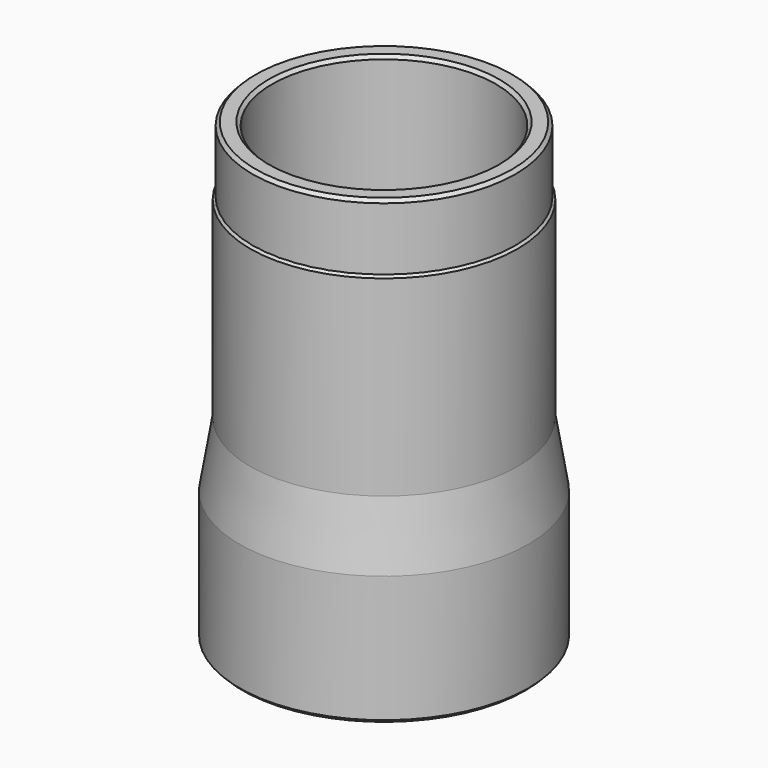
from build123d import *

# Parameters (mm, degrees)
REVOLVE_ONTO_SKETCH_ROLL_ANGLE       = 90
FILLET_R                             = 3
CHAMFER_SIZE                         = 0.5
REVOLVE001_ONTO_SKETCH001_ROLL_ANGLE = 90
CHAMFER001_SIZE                      = 0.5
REVOLVE002_ONTO_SKETCH002_ROLL_ANGLE = 90
CHAMFER002_SIZE                      = 0.5


with BuildPart() as chamfer_body:
    # Sketch as drawn → Revolve (revolve)
    with BuildSketch(Plane.XY):
        Polygon((18.25, 0), (21.25, 0), (21.25, 20), (15, 30), (15, 50), (12, 50), (12, 29.139611), (18.25, 19.139611), align=None)
    revolve(axis=Axis((0, 0, 0), (0, 1, 0)))


with BuildPart() as chamfer_body_1:
    # Revolve onto Sketch roll: moved
    add(chamfer_body.part.rotate(Axis((0, 0, 0), (1, 0, 0)), REVOLVE_ONTO_SKETCH_ROLL_ANGLE))


with BuildPart() as chamfer_body_2:
    # Revolve onto Sketch placement: moved
    add(chamfer_body_1.part)

    # Fillet
    fillet_edges = [chamfer_body_2.edges().sort_by_distance(p)[0] for p in [
        (-21.25, 0, 20),
        (-15, 0, 30),
        (-12, 0, 29.139611),
        (-18.25, 0, 19.139611),
    ]]
    fillet(fillet_edges, radius=FILLET_R)

    # Chamfer
    chamfer_edges = [chamfer_body_2.edges().sort_by_distance(p)[0] for p in [
        (-21.25, 0, 0),
        (-18.25, 0, 0),
        (-15, 0, 50),
        (15.125, 0, 24.139611),
    ]]
    chamfer(chamfer_edges, length=CHAMFER_SIZE)


with BuildPart() as chamfer001:
    # Sketch001 as drawn → Revolve001 (revolve)
    with BuildSketch(Plane.XY):
        Polygon((17.6, 0), (20.6, 0), (20.6, 30), (20.25, 40), (20.25, 70), (17.25, 70), (17.25, 39.947516), (17.6, 29.947516), align=None)
    revolve(axis=Axis((0, 0, 0), (0, 1, 0)))


with BuildPart() as chamfer001_1:
    # Revolve001 onto Sketch001 roll: moved
    add(chamfer001.part.rotate(Axis((0, 0, 0), (1, 0, 0)), REVOLVE001_ONTO_SKETCH001_ROLL_ANGLE))


with BuildPart() as chamfer001_2:
    # Revolve001 onto Sketch001 placement: moved
    add(chamfer001_1.part)

    # Chamfer001
    chamfer001_edges = [chamfer001_2.edges().sort_by_distance(p)[0] for p in [
        (-17.6, 0, 0),
        (-20.6, 0, 0),
        (-20.25, 0, 70),
        (-17.25, 0, 70),
    ]]
    chamfer(chamfer001_edges, length=CHAMFER001_SIZE)


with BuildPart() as chamfer002:
    # Sketch002 as drawn → Revolve002 (revolve)
    with BuildSketch(Plane.XY):
        Polygon((19.25, 0), (22.25, 0), (22.25, 20), (20.6, 30), (20.6, 60), (17.6, 60), (17.6, 29.754162), (19.25, 19.754162), align=None)
    revolve(axis=Axis((0, 0, 0), (0, 1, 0)))


with BuildPart() as chamfer002_1:
    # Revolve002 onto Sketch002 roll: moved
    add(chamfer002.part.rotate(Axis((0, 0, 0), (1, 0, 0)), REVOLVE002_ONTO_SKETCH002_ROLL_ANGLE))


with BuildPart() as chamfer002_2:
    # Revolve002 onto Sketch002 placement: moved
    add(chamfer002_1.part)

    # Chamfer002
    chamfer002_edges = [chamfer002_2.edges().sort_by_distance(p)[0] for p in [
        (-19.25, 0, 0),
        (-22.25, 0, 0),
        (-20.6, 0, 60),
        (-17.6, 0, 60),
    ]]
    chamfer(chamfer002_edges, length=CHAMFER002_SIZE)


solid = Compound([chamfer_body_2.part, chamfer001_2.part, chamfer002_2.part])
